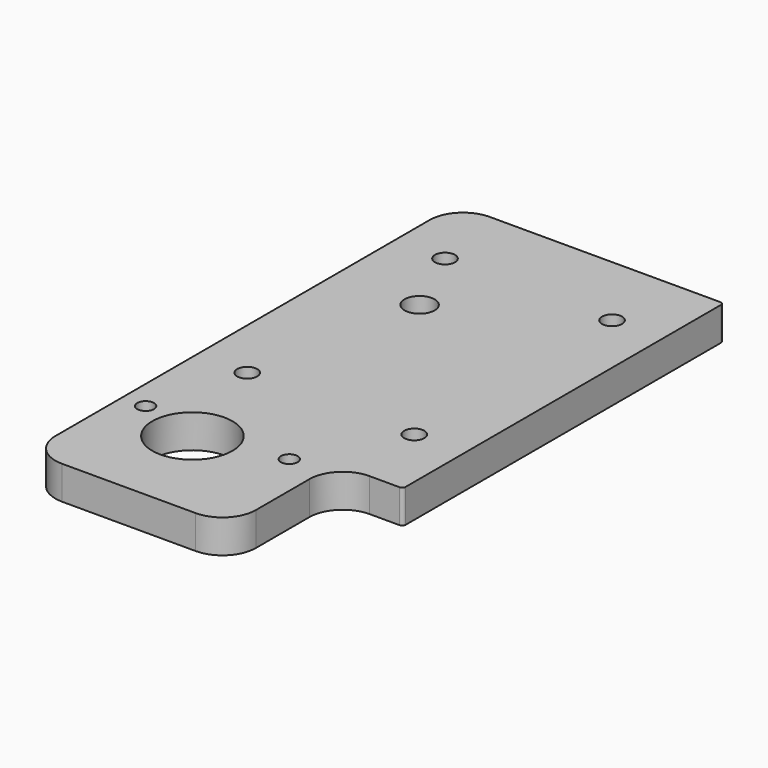
from build123d import *

# Parameters (mm, degrees)
SKETCH_R    = 4.5
SKETCH_R_2  = 12
SKETCH_R_3  = 3
SKETCH_R_4  = 2.5
PAD_DEPTH   = 10
FILLET_R    = 10
FILLET001_R = 1


with BuildPart() as part:
    # Sketch → Pad (new body)
    with BuildSketch(Plane.XY):
        Polygon((-25, 45), (55, 45), (55, -75), (35, -75), (35, -115), (-25, -115), align=None)
        Circle(SKETCH_R, mode=Mode.SUBTRACT)
        with Locations((0, -85)):
            Circle(SKETCH_R_2, mode=Mode.SUBTRACT)
        with Locations((-10, -52)):
            Circle(SKETCH_R_3, mode=Mode.SUBTRACT)
        with Locations((40, -52)):
            Circle(SKETCH_R_3, mode=Mode.SUBTRACT)
        with Locations((40, 22)):
            Circle(SKETCH_R_3, mode=Mode.SUBTRACT)
        with Locations((-10, 22)):
            Circle(SKETCH_R_3, mode=Mode.SUBTRACT)
        with Locations((25, -80)):
            Circle(SKETCH_R_4, mode=Mode.SUBTRACT)
        with Locations((-18, -80)):
            Circle(SKETCH_R_4, mode=Mode.SUBTRACT)
    extrude(amount=PAD_DEPTH)

    # Fillet
    fillet_edges = [part.edges().sort_by_distance(p)[0] for p in [
        (35, -115, 5),
        (-25, -115, 5),
        (35, -75, 5),
        (-25, 45, 5),
    ]]
    fillet(fillet_edges, radius=FILLET_R)

    # Fillet001
    fillet001_edges = [part.edges().sort_by_distance(p)[0] for p in [
        (55, -75, 5),
        (55, 45, 5),
    ]]
    fillet(fillet001_edges, radius=FILLET001_R)


solid = part.part
